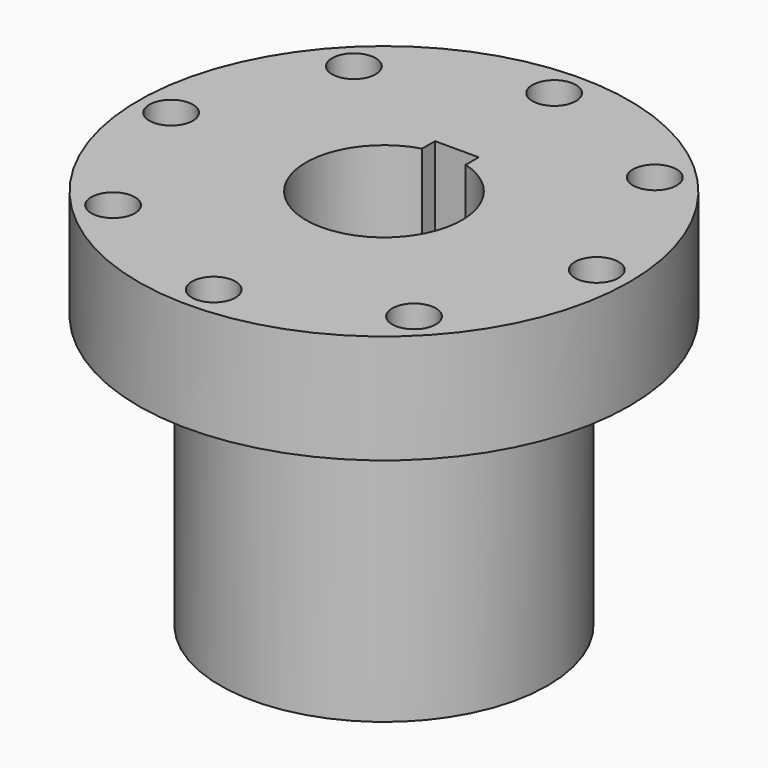
from build123d import *

# Parameters (mm, degrees)
F3_DEPTH = 140.001
F4_R     = 8
F5_DEPTH = 140.001
F6_R     = 4
F7_DEPTH = 90.001


with BuildPart() as f1:
    # F0 (on Front) → F1 (revolve)
    with BuildSketch(Plane.XZ):
        Polygon((28.6, 140), (28.6, 0), (60, 0), (60, 100), (90, 100), (90, 140), align=None)
    revolve(axis=Axis((0, 0, 42.943615), (0, 0, 1)))

    # F2 (on face) → F3 (cut, through all)
    with BuildSketch(Plane.XY.offset(140)):
        with BuildLine():
            Line((8, 33.4), (-8, 33.4))
            Line((-8, 33.4), (-8, 27.458332))
            ThreePointArc((-8, 27.458332), (0, 28.6), (8, 27.458332))
            Line((8, 27.458332), (8, 33.4))
        make_face()
    extrude(amount=-F3_DEPTH, mode=Mode.SUBTRACT)

    # F4 (on face) → F5 (cut, through all)
    with BuildSketch(Plane.XY.offset(140)):
        with Locations((-55.154329, 55.154329)):
            Circle(F4_R)
        with Locations((0, 78)):
            Circle(F4_R)
        with Locations((55.154329, 55.154329)):
            Circle(F4_R)
        with Locations((78, 0)):
            Circle(F4_R)
        with Locations((55.154329, -55.154329)):
            Circle(F4_R)
        with Locations((0, -78)):
            Circle(F4_R)
        with Locations((-55.154329, -55.154329)):
            Circle(F4_R)
        with Locations((-78, 0)):
            Circle(F4_R)
    extrude(amount=-F5_DEPTH, mode=Mode.SUBTRACT)

    # F6 (on Front) → F7 (cut, through all)
    with BuildSketch(Plane.XZ):
        with Locations((0, 50)):
            Circle(F6_R)
    extrude(amount=-F7_DEPTH, mode=Mode.SUBTRACT)


solid = f1.part
